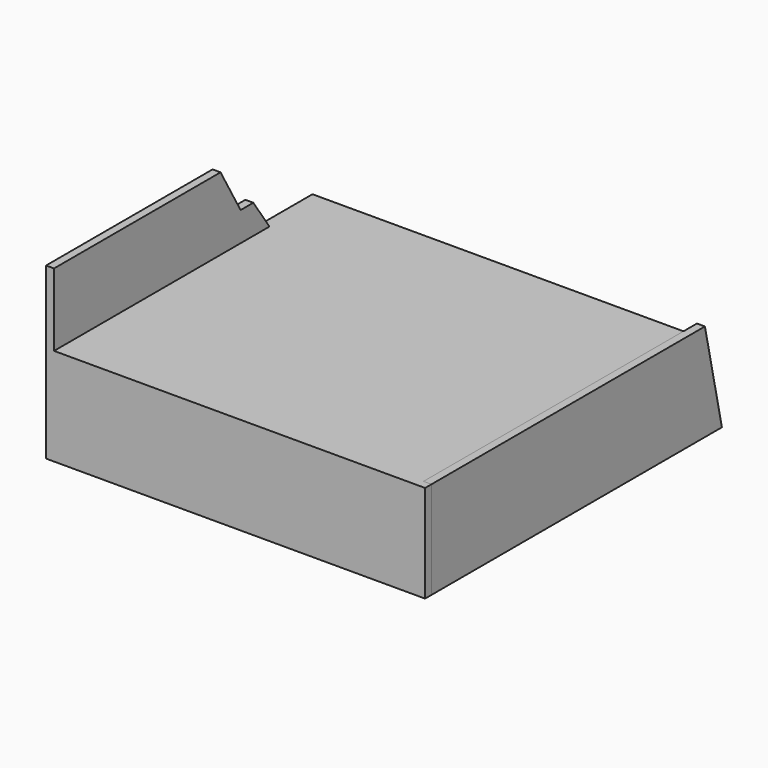
from build123d import *

# Parameters (mm, degrees)
F0_W     = 410
F0_H     = 367
F1_DEPTH = 9
F2_DEPTH = 110
F4_DEPTH = 9
F6_DEPTH = 9


with BuildPart() as f1:
    # F0 (on Top) → F1 (new body)
    with BuildSketch(Plane.XY):
        with Locations((205, 183.5)):
            Rectangle(F0_W, F0_H)
    extrude(amount=-F1_DEPTH)

    # F0 (on Top) → F2 (join)
    with BuildSketch(Plane.XY):
        Polygon((410, 0), (0, 0), (0, -9), (419, -9), (419, 0), align=None)
    extrude(amount=-F2_DEPTH)

    # F5 (on face) → F6 (join)
    with BuildSketch(Plane(origin=(0, 0, 0), x_dir=(0, -1, 0), z_dir=(-1, 0, 0))):
        Polygon((-367, -110), (9, -110), (9, 82), (-226, 82), (-254.319839, 32.948601), (-272.319839, 32.948601), (-295, 0), (-367, 0), align=None)
    extrude(amount=F6_DEPTH)


with BuildPart() as f4:
    # F3 (on face) → F4 (new body)
    with BuildSketch(Plane.YZ.offset(419)):
        Polygon((386, 0), (0, 0), (0, -110), (410, -110), align=None)
    extrude(amount=-F4_DEPTH)


solid = Compound([f1.part, f4.part])
